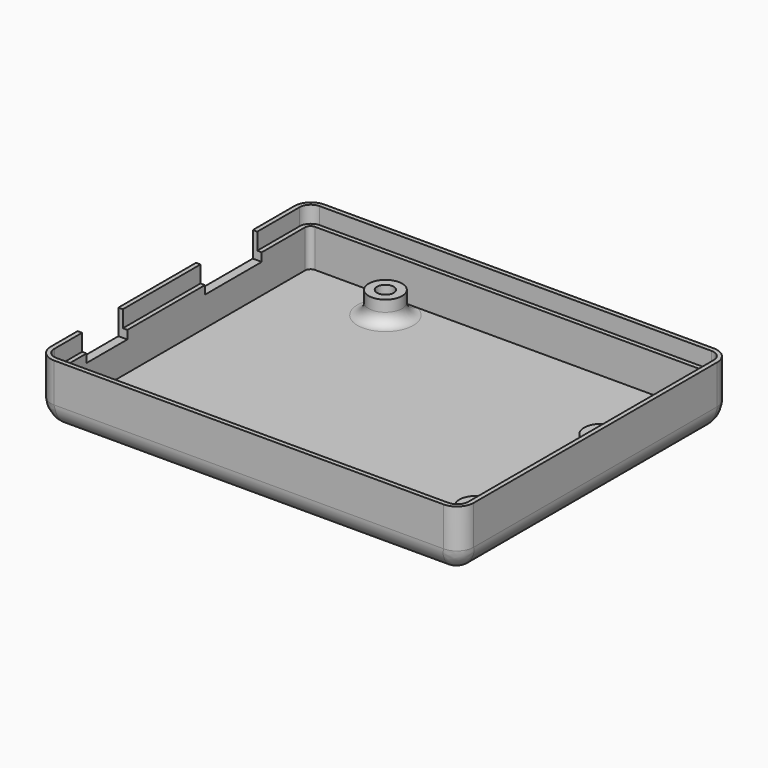
from build123d import *

# Parameters (mm, degrees)
SKETCH001_W     = 75.78
SKETCH001_H     = 60.54
PAD_DEPTH       = 11
SKETCH002_W     = 72.58
SKETCH002_H     = 57.34
POCKET_DEPTH    = 9.8
SKETCH005_W     = 74.18
SKETCH005_H     = 58.94
POCKET001_DEPTH = 3
SKETCH003_R     = 3
SKETCH003_R_2   = 1.5
PAD001_DEPTH    = 4
SKETCH004_W     = 12.72
SKETCH004_H     = 10.8
SKETCH004_W_2   = 9.14
POCKET002_DEPTH = 5
FILLET_R        = 4
FILLET001_R     = 1
FILLET002_R     = 2
FILLET003_R     = 3
FILLET004_R     = 2


with BuildPart() as part:
    # Sketch001 → Pad (new body)
    with BuildSketch(Plane.XY):
        Rectangle(SKETCH001_W, SKETCH001_H)
    extrude(amount=PAD_DEPTH)

    # Sketch002 (on Face6 of Pad) → Pocket (cut)
    with BuildSketch(Plane.XY.offset(11)):
        Rectangle(SKETCH002_W, SKETCH002_H)
    extrude(amount=-POCKET_DEPTH, mode=Mode.SUBTRACT)

    # Sketch005 (on DatumPlane) → Pocket001 (cut)
    with BuildSketch(Plane.XY.offset(11)):
        Rectangle(SKETCH005_W, SKETCH005_H)
    extrude(amount=-POCKET001_DEPTH, mode=Mode.SUBTRACT)

    # Sketch003 (on Face11 of Pocket) → Pad001 (join)
    with BuildSketch(Plane.XY.offset(1.2)):
        with Locations((-19.05, 24.13)):
            Circle(SKETCH003_R)
        with Locations((-19.05, 24.13)):
            Circle(SKETCH003_R_2, mode=Mode.SUBTRACT)
        with Locations((31.75, 8.89)):
            Circle(SKETCH003_R)
        with Locations((31.75, 8.89)):
            Circle(SKETCH003_R_2, mode=Mode.SUBTRACT)
        with Locations((-20.32, -24.13)):
            Circle(SKETCH003_R)
        with Locations((-20.32, -24.13)):
            Circle(SKETCH003_R_2, mode=Mode.SUBTRACT)
        with Locations((31.75, -19.05)):
            Circle(SKETCH003_R)
        with Locations((31.75, -19.05)):
            Circle(SKETCH003_R_2, mode=Mode.SUBTRACT)
    extrude(amount=PAD001_DEPTH)

    # Sketch004 (on Face2 of Pad001) → Pocket002 (cut)
    with BuildSketch(Plane(origin=(-37.89, 0, 0), x_dir=(0, -1, 0), z_dir=(-1, 0, 0))):
        with Locations((-11.62, 11.89)):
            Rectangle(SKETCH004_W, SKETCH004_H)
        with Locations((16.69, 11.89)):
            Rectangle(SKETCH004_W_2, SKETCH004_H)
    extrude(amount=-POCKET002_DEPTH, mode=Mode.SUBTRACT)

    # Fillet
    fillet_edges = [part.edges().sort_by_distance(p)[0] for p in [
        (0, 30.27, 0),
        (37.89, 0, 0),
        (0, -30.27, 0),
        (-37.89, 0, 0),
    ]]
    fillet(fillet_edges, radius=FILLET_R)

    # Fillet001
    fillet001_edges = [part.edges().sort_by_distance(p)[0] for p in [
        (36.29, 28.67, 4.6),
        (36.29, -28.67, 4.6),
        (-36.29, -28.67, 4.6),
        (-36.29, 28.67, 4.6),
    ]]
    fillet(fillet001_edges, radius=FILLET001_R)

    # Fillet002
    fillet002_edges = [part.edges().sort_by_distance(p)[0] for p in [
        (-37.09, -29.47, 9.5),
        (-37.09, 29.47, 9.5),
        (37.09, 29.47, 9.5),
        (37.09, -29.47, 9.5),
    ]]
    fillet(fillet002_edges, radius=FILLET002_R)

    # Fillet003
    fillet003_edges = [part.edges().sort_by_distance(p)[0] for p in [
        (-37.89, -30.27, 7.5),
        (37.89, -30.27, 7.5),
        (37.89, 30.27, 7.5),
        (-37.89, 30.27, 7.5),
    ]]
    fillet(fillet003_edges, radius=FILLET003_R)

    # Fillet004
    fillet004_edges = [part.edges().sort_by_distance(p)[0] for p in [
        (-22.05, 24.13, 1.2),
        (28.75, 8.89, 1.2),
        (28.75, -19.05, 1.2),
        (-23.32, -24.13, 1.2),
    ]]
    fillet(fillet004_edges, radius=FILLET004_R)


solid = part.part
